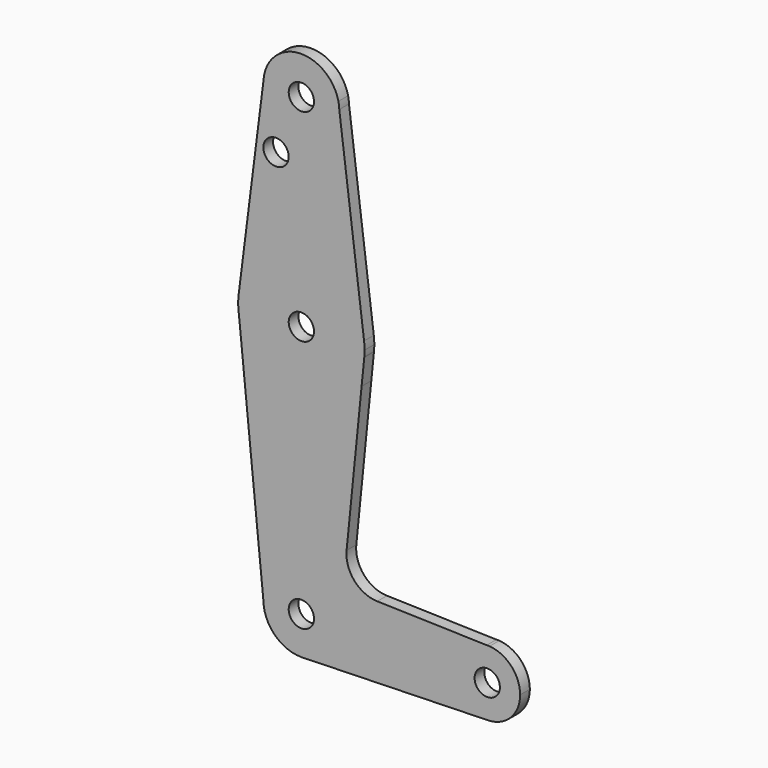
from build123d import *

# Parameters (mm, degrees)
F0_R     = 3.175
F1_DEPTH = 3.048


with BuildPart() as f1:
    # F0 (on Front) → F1 (new body)
    with BuildSketch(Plane.XZ):
        with BuildLine():
            Line((15.06596, -8.46577), (15.741248, -1.746608))
            ThreePointArc((15.741248, -1.746608), (0.511091, -16.085167), (-15.710986, -2.879252))
            Line((-15.710986, -2.879252), (-9.581655, -63.981123))
            ThreePointArc((-9.581655, -63.981123), (-0.19057, -54.196342), (9.464778, -63.72045))
            ThreePointArc((9.464778, -63.72045), (6.866195, -70.258827), (0.488322, -73.229642))
            Line((0.488322, -73.229642), (46.577481, -71.975364))
            ThreePointArc((46.577481, -71.975364), (38.36044, -63.761697), (46.494992, -55.466328))
            Line((46.494992, -55.466328), (18.991247, -54.712712))
            ThreePointArc((18.991247, -54.712712), (13.239164, -52.018093), (11.296671, -45.970435))
            Line((11.296671, -45.970435), (15.06596, -8.46577))
        make_face()
        with BuildLine():
            ThreePointArc((-15.710986, -2.879252), (0.511091, -16.085167), (15.741248, -1.746608))
            ThreePointArc((15.741248, -1.746608), (15.796385, -0.984415), (15.814778, -0.22045))
            ThreePointArc((15.814778, -0.22045), (15.783216, 0.780095), (15.688656, 1.776662))
            ThreePointArc((15.688656, 1.776662), (-0.063198, 15.654549), (-15.809848, 1.770757))
            ThreePointArc((-15.809848, 1.770757), (-15.931636, -0.557888), (-15.710986, -2.879252))
        make_face()
        with Locations((-0.060222, -0.22045)):
            Circle(F0_R, mode=Mode.SUBTRACT)
        with BuildLine():
            ThreePointArc((9.464778, -63.72045), (-0.19057, -54.196342), (-9.581655, -63.981123))
            ThreePointArc((-9.581655, -63.981123), (-6.713551, -70.536522), (-0.090768, -73.245402))
            Line((-0.090768, -73.245402), (0.488322, -73.229642))
            ThreePointArc((0.488322, -73.229642), (6.866195, -70.258827), (9.464778, -63.72045))
        make_face()
        with Locations((-0.060222, -63.72045)):
            Circle(F0_R, mode=Mode.SUBTRACT)
        with BuildLine():
            Line((-9.56921, 51.131614), (-15.809848, 1.770757))
            ThreePointArc((-15.809848, 1.770757), (-0.063198, 15.654549), (15.688656, 1.776662))
            Line((15.688656, 1.776662), (9.459404, 50.899448))
            ThreePointArc((9.459404, 50.899448), (9.463434, 50.739521), (9.464778, 50.57955))
            ThreePointArc((9.464778, 50.57955), (-0.336371, 41.058553), (-9.56921, 51.131614))
        make_face()
        with Locations((-6.428017, 36.30475)):
            Circle(F0_R, mode=Mode.SUBTRACT)
        with BuildLine():
            Line((0.488322, -73.229642), (-0.090768, -73.245402))
            ThreePointArc((-0.090768, -73.245402), (0.198897, -73.241925), (0.488322, -73.229642))
        make_face()
        with BuildLine():
            ThreePointArc((9.237933, 52.645931), (-0.824684, 60.073823), (-9.56921, 51.131614))
            ThreePointArc((-9.56921, 51.131614), (-0.336371, 41.058553), (9.464778, 50.57955))
            ThreePointArc((9.464778, 50.57955), (9.463434, 50.739521), (9.459404, 50.899448))
            Line((9.459404, 50.899448), (9.237933, 52.645931))
        make_face()
        with Locations((-0.060222, 50.57955)):
            Circle(F0_R, mode=Mode.SUBTRACT)
        with BuildLine():
            Line((9.237933, 52.645931), (9.459404, 50.899448))
            ThreePointArc((9.459404, 50.899448), (9.389105, 51.777817), (9.237933, 52.645931))
        make_face()
        with BuildLine():
            Line((47.187497, -55.485303), (46.494992, -55.466328))
            ThreePointArc((46.494992, -55.466328), (38.36044, -63.761697), (46.577481, -71.975364))
            ThreePointArc((46.577481, -71.975364), (52.439104, -69.570986), (54.870337, -63.72045))
            ThreePointArc((54.870337, -63.72045), (52.651404, -58.089205), (47.187497, -55.485303))
        make_face()
        with Locations((46.615337, -63.72045)):
            Circle(F0_R, mode=Mode.SUBTRACT)
        with BuildLine():
            ThreePointArc((47.187497, -55.485303), (46.841444, -55.468548), (46.494992, -55.466328))
            Line((46.494992, -55.466328), (47.187497, -55.485303))
        make_face()
    extrude(amount=F1_DEPTH)


solid = f1.part
